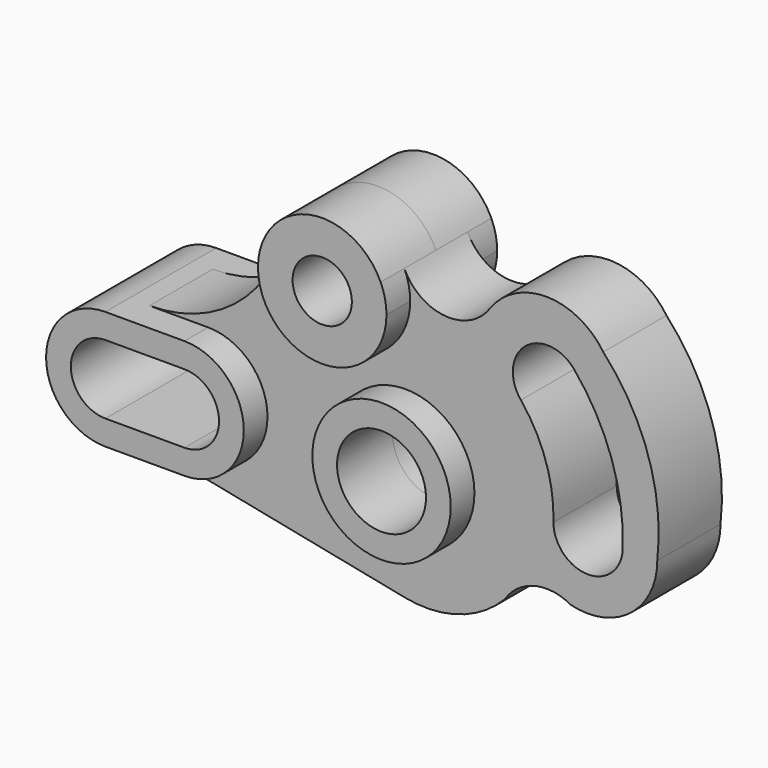
from build123d import *

# Parameters (mm, degrees)
F0_R     = 22.225
F1_DEPTH = 12.7
F0_R_2   = 9.525
F0_R_3   = 14.2875
F2_DEPTH = 22.225


with BuildPart() as f1:
    # F0 (on Front) → F1 (new body, symmetric)
    with BuildSketch(Plane.XZ):
        with BuildLine():
            ThreePointArc((-0.2919846436, 56.2298396929), (1.1121545, 52.0288542399), (1.5875, 47.625))
            ThreePointArc((1.5875, 47.625), (-21.5859879765, 27.1439069815), (-39.0642428209, 52.6585365854))
            ThreePointArc((-39.0642428209, 52.6585365854), (-54.8414617427, 28.4450035745), (-82.1718427428, 19.05))
            Line((-82.1718427428, 19.05), (-63.2968, 19.05))
            ThreePointArc((-63.2968, 19.05), (-44.2468, 0), (-63.2968, -19.05))
            Line((-63.2968, -19.05), (-88.6968, -19.05))
            Line((-88.6968, -19.05), (0, -36.8078392435))
            ThreePointArc((0, -36.8078392435), (17.2687515341, -35.8991193954), (31.9847636706, -26.8175700723))
            ThreePointArc((31.9847636706, -26.8175700723), (41.5055089425, -19.9575339798), (53.1369815663, -21.5110880746))
            ThreePointArc((53.1369815663, -21.5110880746), (72.3218835165, -17.5803852303), (80.9498, 0))
            ThreePointArc((80.9498, 0), (78.124343244, 28.5852355494), (63.6015594579, 53.3680450834))
            ThreePointArc((63.6015594579, 53.3680450834), (45.6576699179, 63.0757235713), (27.3567531258, 54.0591478348))
            ThreePointArc((27.3567531258, 54.0591478348), (12.8947411475, 47.0226469805), (-0.2919846436, 56.2298396929))
        make_face()
        Circle(F0_R, mode=Mode.SUBTRACT)
        with BuildLine():
            ThreePointArc((54.1971962792, 45.4768474087), (66.239333213, 24.1894493889), (69.85, 0))
            ThreePointArc((69.85, 0), (58.7248, -11.1252), (47.5996, 0))
            ThreePointArc((47.5996, 0), (45.1596233805, 16.520128764), (37.152401002, 31.1745659782))
            ThreePointArc((37.152401002, 31.1745659782), (38.5236579253, 46.848104332), (54.1971962792, 45.4768474087))
        make_face(mode=Mode.SUBTRACT)
    extrude(amount=F1_DEPTH, both=True)

    # F0 (on Front) → F2 (join, symmetric)
    with BuildSketch(Plane.XZ):
        with BuildLine():
            ThreePointArc((-39.0642428209, 52.6585365854), (-21.5859879765, 27.1439069815), (1.5875, 47.625))
            ThreePointArc((1.5875, 47.625), (1.1121545, 52.0288542399), (-0.2919846436, 56.2298396929))
            ThreePointArc((-0.2919846436, 56.2298396929), (-20.9429020926, 68.1755067557), (-39.0642428209, 52.6585365854))
        make_face()
        with Locations((-19.05, 47.625)):
            Circle(F0_R_2, mode=Mode.SUBTRACT)
        Circle(F0_R)
        Circle(F0_R_3, mode=Mode.SUBTRACT)
        with BuildLine():
            Line((-63.2968, 19.05), (-82.1718427428, 19.05))
            Line((-82.1718427428, 19.05), (-88.6968, 19.05))
            ThreePointArc((-88.6968, 19.05), (-107.7468, 0), (-88.6968, -19.05))
            Line((-88.6968, -19.05), (-63.2968, -19.05))
            ThreePointArc((-63.2968, -19.05), (-44.2468, 0), (-63.2968, 19.05))
        make_face()
        with BuildLine():
            Line((-63.2968, -11.0998), (-88.6968, -11.0998))
            ThreePointArc((-88.6968, -11.0998), (-99.7966, 0), (-88.6968, 11.0998))
            Line((-88.6968, 11.0998), (-63.2968, 11.0998))
            ThreePointArc((-63.2968, 11.0998), (-52.197, 0), (-63.2968, -11.0998))
        make_face(mode=Mode.SUBTRACT)
    extrude(amount=F2_DEPTH, both=True)


solid = f1.part
